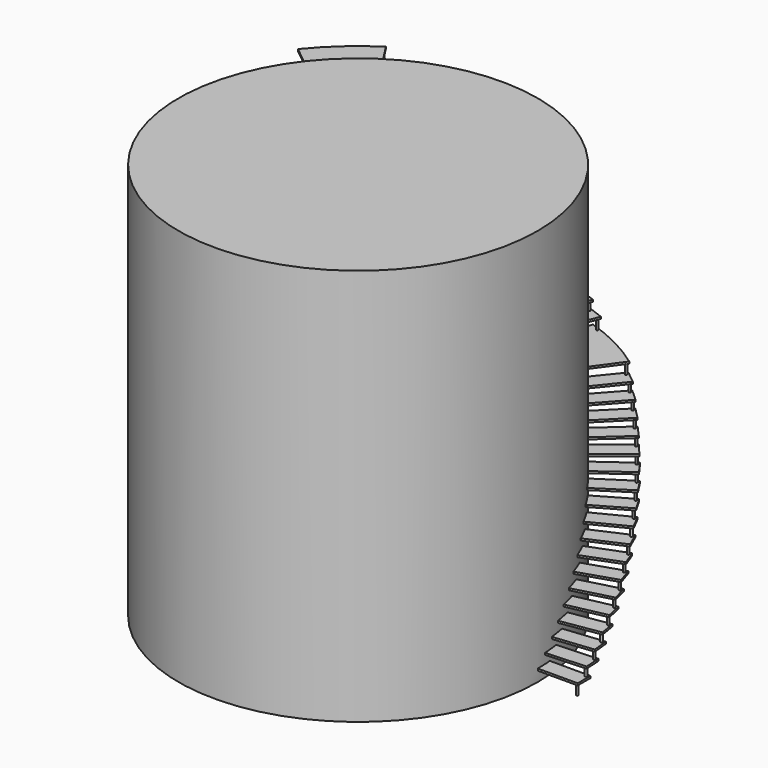
from build123d import *

# Parameters (mm, degrees)
CYLINDER_R                  = 25
CYLINDER_DEPTH              = 250
BOX_W                       = 5500
BOX_H                       = 400
BOX_DEPTH                   = 50
CLONE_PLACEMENT_ANGLE       = 3
CLONE001_PLACEMENT_ANGLE    = 3
CLONE002_PLACEMENT_ANGLE    = 3
CLONE003_PLACEMENT_ANGLE    = 3
CLONE004_PLACEMENT_ANGLE    = 3
CLONE005_PLACEMENT_ANGLE    = 18
CLONE006_PLACEMENT_ANGLE    = 18
CYLINDER001_W               = 5500
CYLINDER001_H               = 50
CYLINDER001_ANGLE           = 18
CYLINDER001_PLACEMENT_ANGLE = 54
CYLINDER002_R               = 25
CYLINDER002_DEPTH           = 250
CYLINDER002_PLACEMENT_ANGLE = 57
CLONE007_PLACEMENT_ANGLE    = 69
CYLINDER003_R               = 4500
CYLINDER003_DEPTH           = 9950


with BuildPart() as cylinder:
    # Cylinder → Cylinder (new body)
    with BuildSketch(Plane(origin=(5450, 50, 0), x_dir=(1, 0, 0), z_dir=(0, 0, 1))):
        Circle(CYLINDER_R)
    extrude(amount=CYLINDER_DEPTH)


with BuildPart() as fusion:
    # Box → Box (new body)
    with BuildSketch(Plane.XY.offset(250)):
        with Locations((2750, 200)):
            Rectangle(BOX_W, BOX_H)
    extrude(amount=BOX_DEPTH)

    # Fusion: union Cylinder
    add(cylinder.part)


with BuildPart() as fusion001:
    # Clone base: copy of Fusion
    add(fusion.part)


with BuildPart() as fusion001_1:
    # Clone placement: moved
    add(fusion001.part.moved(Location((0, 0, 250))).rotate(Axis((0, 0, 250), (0, 0, 1)), CLONE_PLACEMENT_ANGLE))


with BuildPart() as fusion002:
    # Clone001 base: copy of Fusion001
    add(fusion001_1.part)


with BuildPart() as fusion002_1:
    # Clone001 placement: moved
    add(fusion002.part.moved(Location((0, 0, 250))).rotate(Axis((0, 0, 250), (0, 0, 1)), CLONE001_PLACEMENT_ANGLE))


with BuildPart() as fusion003:
    # Clone002 base: copy of Fusion002
    add(fusion002_1.part)


with BuildPart() as fusion003_1:
    # Clone002 placement: moved
    add(fusion003.part.moved(Location((0, 0, 250))).rotate(Axis((0, 0, 250), (0, 0, 1)), CLONE002_PLACEMENT_ANGLE))


with BuildPart() as fusion004:
    # Clone003 base: copy of Fusion003
    add(fusion003_1.part)


with BuildPart() as fusion004_1:
    # Clone003 placement: moved
    add(fusion004.part.moved(Location((0, 0, 250))).rotate(Axis((0, 0, 250), (0, 0, 1)), CLONE003_PLACEMENT_ANGLE))


with BuildPart() as fusion005:
    # Clone004 base: copy of Fusion004
    add(fusion004_1.part)


with BuildPart() as fusion005_1:
    # Clone004 placement: moved
    add(fusion005.part.moved(Location((0, 0, 250))).rotate(Axis((0, 0, 250), (0, 0, 1)), CLONE004_PLACEMENT_ANGLE))


with BuildPart() as fusion006:
    # Fusion001 base: copy of Fusion
    add(fusion.part)

    # Fusion001: union Fusion001, Fusion002, Fusion003, Fusion004, Fusion005
    add(fusion001_1.part)
    add(fusion002_1.part)
    add(fusion003_1.part)
    add(fusion004_1.part)
    add(fusion005_1.part)


with BuildPart() as fusion007:
    # Clone005 base: copy of Fusion006
    add(fusion006.part)


with BuildPart() as fusion007_1:
    # Clone005 placement: moved
    add(fusion007.part.moved(Location((0, 0, 1500))).rotate(Axis((0, 0, 1500), (0, 0, 1)), CLONE005_PLACEMENT_ANGLE))


with BuildPart() as fusion008:
    # Clone006 base: copy of Fusion007
    add(fusion007_1.part)


with BuildPart() as fusion008_1:
    # Clone006 placement: moved
    add(fusion008.part.moved(Location((0, 0, 1500))).rotate(Axis((0, 0, 1500), (0, 0, 1)), CLONE006_PLACEMENT_ANGLE))


with BuildPart() as cylinder001:
    # Cylinder001 → Cylinder001 (revolve)
    with BuildSketch(Plane.XZ):
        with Locations((2750, 25)):
            Rectangle(CYLINDER001_W, CYLINDER001_H)
    revolve(axis=Axis((0, 0, 0), (0, 0, 1)), revolution_arc=CYLINDER001_ANGLE)


with BuildPart() as cylinder001_1:
    # Cylinder001 placement: moved
    add(cylinder001.part.moved(Location((0, 0, 4800))).rotate(Axis((0, 0, 4800), (0, 0, 1)), CYLINDER001_PLACEMENT_ANGLE))


with BuildPart() as cylinder002:
    # Cylinder002 → Cylinder002 (new body)
    with BuildSketch(Plane.XY):
        Circle(CYLINDER002_R)
    extrude(amount=CYLINDER002_DEPTH)


with BuildPart() as cylinder002_1:
    # Cylinder002 placement: moved
    add(cylinder002.part.moved(Location((3166.887418, 4435.732664, 4550))).rotate(Axis((3166.887418, 4435.732664, 4550), (0, 0, 1)), CYLINDER002_PLACEMENT_ANGLE))


with BuildPart() as fusion009:
    # Fusion002 base: copy of Fusion006
    add(fusion006.part)

    # Fusion002: union Fusion007, Fusion008, Cylinder001, Cylinder002
    add(fusion007_1.part)
    add(fusion008_1.part)
    add(cylinder001_1.part)
    add(cylinder002_1.part)


with BuildPart() as fusion010:
    # Clone007 base: copy of Fusion009
    add(fusion009.part)


with BuildPart() as fusion010_1:
    # Clone007 placement: moved
    add(fusion010.part.moved(Location((0, 0, 4850))).rotate(Axis((0, 0, 4850), (0, 0, 1)), CLONE007_PLACEMENT_ANGLE))


with BuildPart() as fusion011:
    # Cylinder003 → Cylinder003 (new body)
    with BuildSketch(Plane.XY):
        Circle(CYLINDER003_R)
    extrude(amount=CYLINDER003_DEPTH)

    # Fusion003: union Fusion010, Fusion009
    add(fusion010_1.part)
    add(fusion009.part)


solid = fusion011.part
